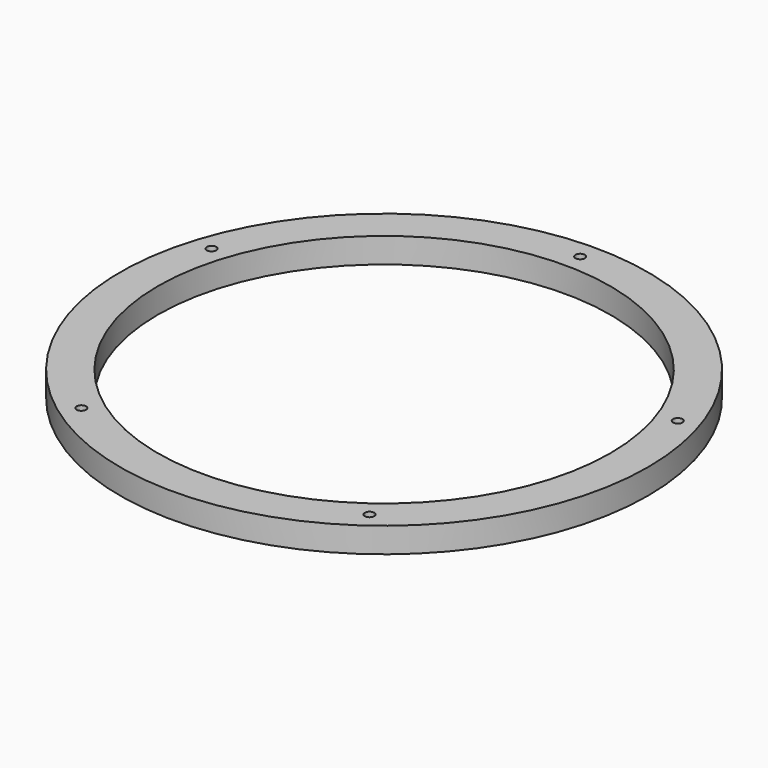
from build123d import *

# Parameters (mm, degrees)
F0_R     = 66.675
F0_R_2   = 1.1938
F0_R_3   = 57.15
F1_DEPTH = 6.35


with BuildPart() as f1:
    # F0 (on Top) → F1 (new body)
    with BuildSketch(Plane.XY):
        Circle(F0_R)
        with Locations((-36.391254, -50.088265)):
            Circle(F0_R_2, mode=Mode.SUBTRACT)
        with Locations((36.391254, -50.088265)):
            Circle(F0_R_2, mode=Mode.SUBTRACT)
        with Locations((-58.882287, 19.132015)):
            Circle(F0_R_2, mode=Mode.SUBTRACT)
        Circle(F0_R_3, mode=Mode.SUBTRACT)
        with Locations((58.882287, 19.132015)):
            Circle(F0_R_2, mode=Mode.SUBTRACT)
        with Locations((0, 61.9125)):
            Circle(F0_R_2, mode=Mode.SUBTRACT)
    extrude(amount=F1_DEPTH)


solid = f1.part
